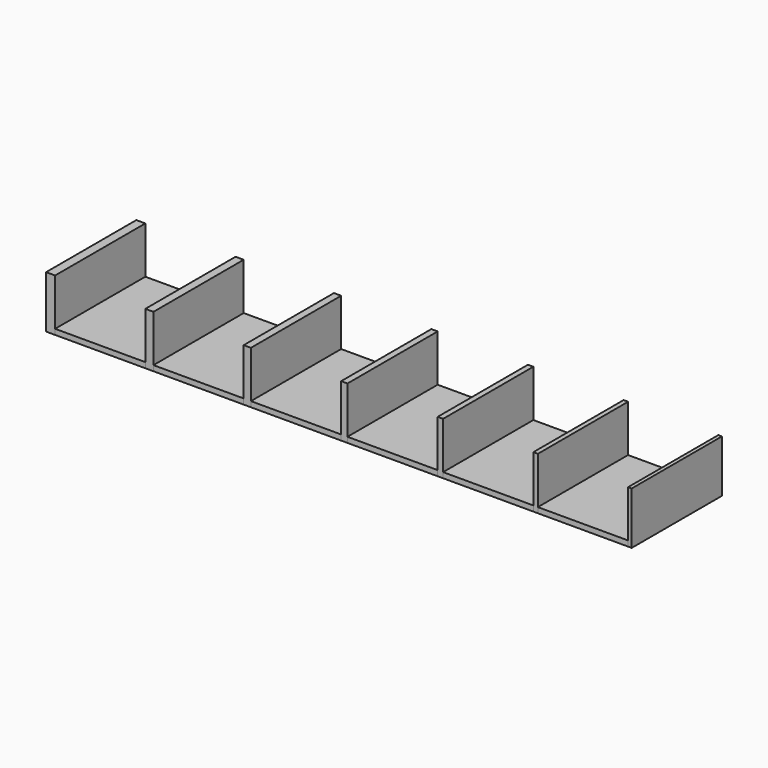
from build123d import *

# Parameters (mm, degrees)
F0_W     = 2
F0_H     = 25
F0_W_2   = 1.8
F0_W_3   = 1.6
F0_W_4   = 1.4
F0_W_5   = 1.2
F0_W_6   = 1
F0_W_7   = 0.8
F1_DEPTH = 11.6
F0_W_8   = 20
F2_DEPTH = 1.2


with BuildPart() as f1:
    # F0 (on Top) → F1 (new body)
    with BuildSketch(Plane.XY):
        with Locations((1, -12.5)):
            Rectangle(F0_W, F0_H)
        with Locations((22.9, -12.5)):
            Rectangle(F0_W_2, F0_H)
        with Locations((44.6, -12.5)):
            Rectangle(F0_W_3, F0_H)
        with Locations((66.1, -12.5)):
            Rectangle(F0_W_4, F0_H)
        with Locations((87.4, -12.5)):
            Rectangle(F0_W_5, F0_H)
        with Locations((108.5, -12.5)):
            Rectangle(F0_W_6, F0_H)
        with Locations((129.4, -12.5)):
            Rectangle(F0_W_7, F0_H)
    extrude(amount=F1_DEPTH)


with BuildPart() as f2:
    # F0 (on Top) → F2 (new body)
    with BuildSketch(Plane.XY):
        with Locations((12, -12.5)):
            Rectangle(F0_W_8, F0_H)
        with Locations((33.8, -12.5)):
            Rectangle(F0_W_8, F0_H)
        with Locations((55.4, -12.5)):
            Rectangle(F0_W_8, F0_H)
        with Locations((76.8, -12.5)):
            Rectangle(F0_W_8, F0_H)
        with Locations((98, -12.5)):
            Rectangle(F0_W_8, F0_H)
        with Locations((119, -12.5)):
            Rectangle(F0_W_8, F0_H)
    extrude(amount=F2_DEPTH)


solid = Compound([f1.part, f2.part])
